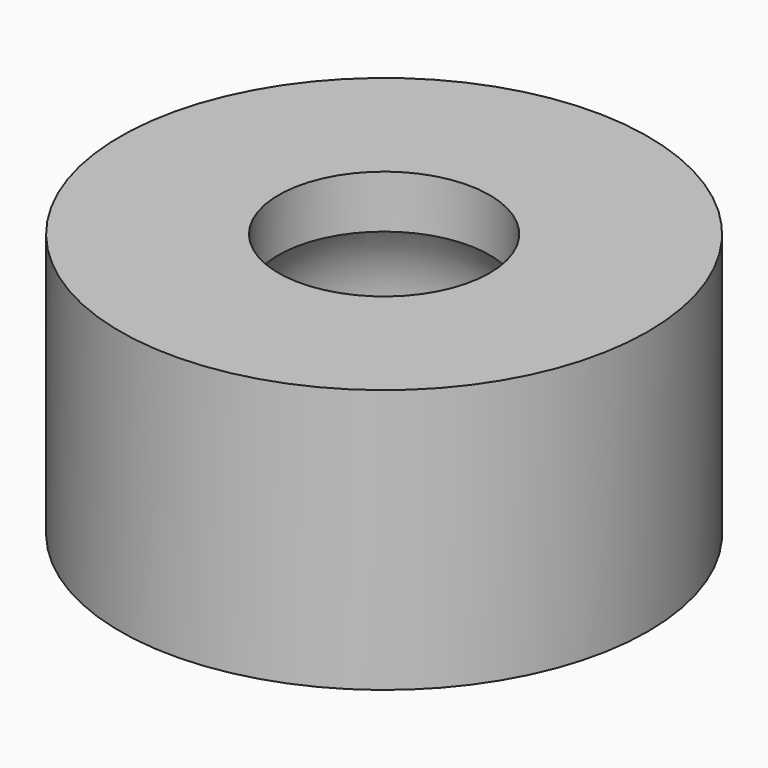
from build123d import *

# Parameters (mm, degrees)
F0_R     = 25
F0_R_2   = 10
F1_DEPTH = 12.5


with BuildPart() as f1:
    # F0 (on Top) → F1 (new body, symmetric)
    with BuildSketch(Plane.XY):
        Circle(F0_R)
        Circle(F0_R_2, mode=Mode.SUBTRACT)
    extrude(amount=F1_DEPTH, both=True)

    # F2 (on Top) → F3 (revolve, cut)
    with BuildSketch(Plane.XY):
        with BuildLine():
            Line((12.5, 0), (-12.5, 0))
            ThreePointArc((-12.5, 0), (0, -12.5), (12.5, 0))
        make_face()
    revolve(axis=Axis((0.2040453255, 0, 0), (-1, 0, 0)), mode=Mode.SUBTRACT)


solid = f1.part
